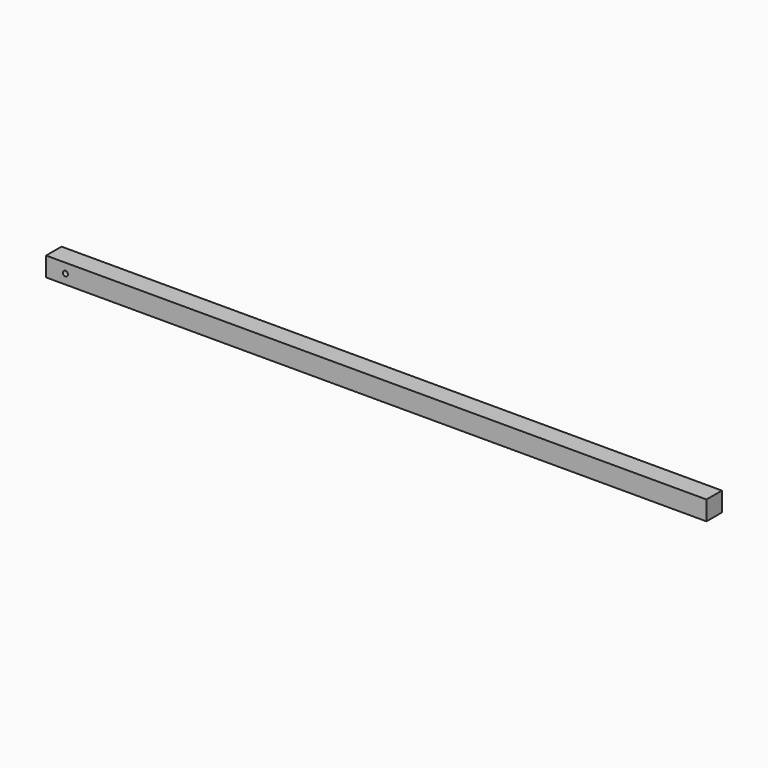
from build123d import *

# Parameters (mm, degrees)
F0_W     = 1300
F0_H     = 38
F1_DEPTH = 38
F2_D     = 10


with BuildPart() as f1:
    # F0 (on Front) → F1 (new body)
    with BuildSketch(Plane.XZ):
        Rectangle(F0_W, F0_H)
    extrude(amount=F1_DEPTH)

    # F2 (through all)
    with Locations(Plane(origin=(0, 0, 0), x_dir=(1, 0, 0), z_dir=(0, 1, 0))):
        with Locations((-612, 0)):
            Hole(F2_D / 2)


solid = f1.part
